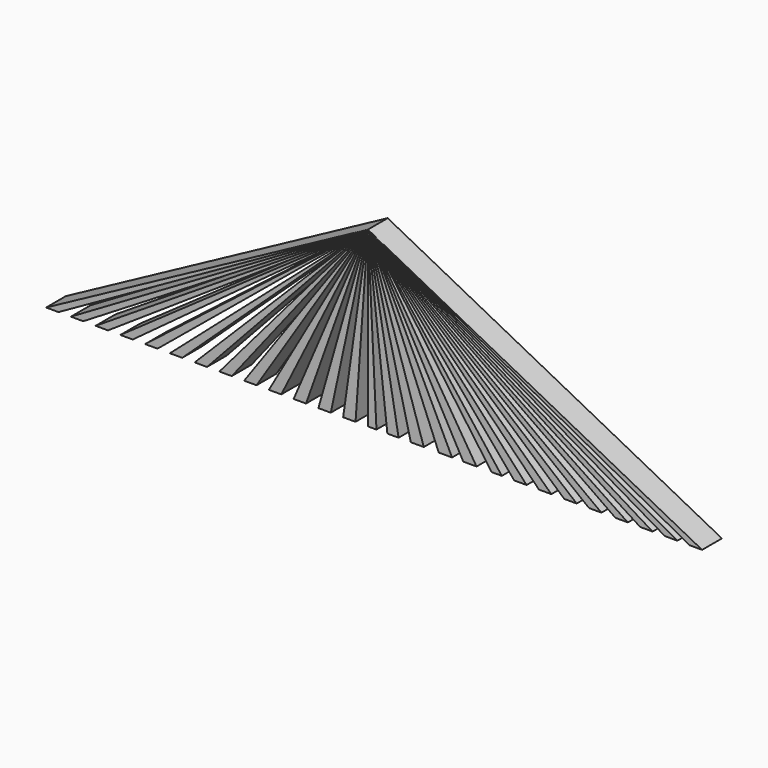
from build123d import *

# Parameters (mm, degrees)
F1_DEPTH = 25.4


with BuildPart() as f1:
    # F0 (on Front) → F1 (new body)
    with BuildSketch(Plane.XZ):
        Polygon((-166.722268, 0), (-175.498977, 177.8), (-175.498977, 0), align=None)
        Polygon((-144.02023, 0), (-175.498977, 177.8), (-155.545875, 0), align=None)
        Polygon((-118.174836, 0), (-175.498977, 177.8), (-131.446794, 0), align=None)
        Polygon((-89.18608, 0), (-175.498977, 177.8), (-102.807306, 0), align=None)
        Polygon((-64.039215, 0), (-175.498977, 177.8), (-77.660434, 0), align=None)
        Polygon((-38.1, 0), (-175.498977, 177.8), (-48.498977, 0), align=None)
        Polygon((-12.7, 0), (-175.498977, 177.8), (-25.4, 0), align=None)
        Polygon((12.7, 0), (-175.498977, 177.8), (0, 0), align=None)
        Polygon((38.699876, 0), (-175.498977, 177.8), (25.999876, 0), align=None)
        Polygon((51.399876, 0), (64.099876, 0), (-175.498977, 177.8), align=None)
        Polygon((-175.498977, 177.8), (78.501023, 0), (91.201023, 0), align=None)
        Polygon((116.601023, 0), (-175.498977, 177.8), (103.901023, 0), align=None)
        Polygon((142.001023, 0), (-175.498977, 177.8), (129.301023, 0), align=None)
        Polygon((167.401023, 0), (-175.498977, 177.8), (154.701023, 0), align=None)
        Polygon((-188.198977, 0), (-175.498977, 177.8), (-200.898977, 0), align=None)
        Polygon((-213.598977, 0), (-175.498977, 177.8), (-226.298977, 0), align=None)
        Polygon((-238.998977, 0), (-175.498977, 177.8), (-251.698977, 0), align=None)
        Polygon((-264.398977, 0), (-175.498977, 177.8), (-277.098977, 0), align=None)
        Polygon((-289.798977, 0), (-175.498977, 177.8), (-302.498977, 0), align=None)
        Polygon((-315.198977, 0), (-175.498977, 177.8), (-327.898977, 0), align=None)
        Polygon((-340.598977, 0), (-175.498977, 177.8), (-353.298977, 0), align=None)
        Polygon((-365.998977, 0), (-175.498977, 177.8), (-378.698977, 0), align=None)
        Polygon((-391.398977, 0), (-175.498977, 177.8), (-404.098977, 0), align=None)
        Polygon((-416.798977, 0), (-175.498977, 177.8), (-429.498977, 0), align=None)
        Polygon((-442.198977, 0), (-175.498977, 177.8), (-454.898977, 0), align=None)
        Polygon((-467.598977, 0), (-175.498977, 177.8), (-480.298977, 0), align=None)
        Polygon((-492.998977, 0), (-175.498977, 177.8), (-505.698977, 0), align=None)
    extrude(amount=F1_DEPTH)


solid = f1.part
